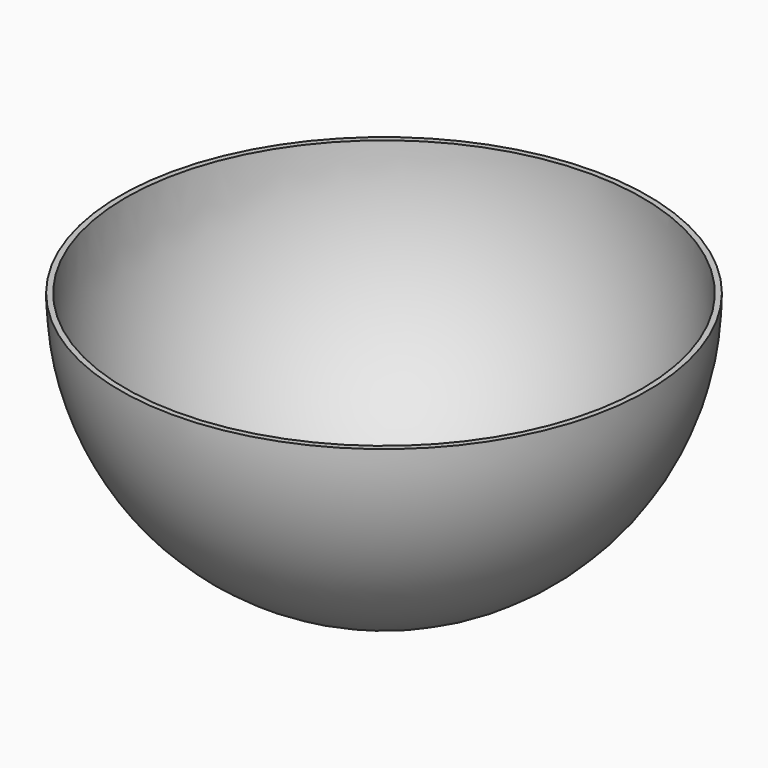
from build123d import *

# Parameters (mm, degrees)
F1_ANGLE = 180


with BuildPart() as f1:
    # F0 (on Top) → F1 (revolve)
    with BuildSketch(Plane.XY):
        with BuildLine():
            Line((0, 47), (0, 48))
            ThreePointArc((0, 48), (-48, 0), (0, -48))
            Line((0, -48), (0, -47))
            ThreePointArc((0, -47), (-47, 0), (0, 47))
        make_face()
    revolve(axis=Axis((0, 47.5, 0), (0, -1, 0)), revolution_arc=F1_ANGLE)


solid = f1.part
